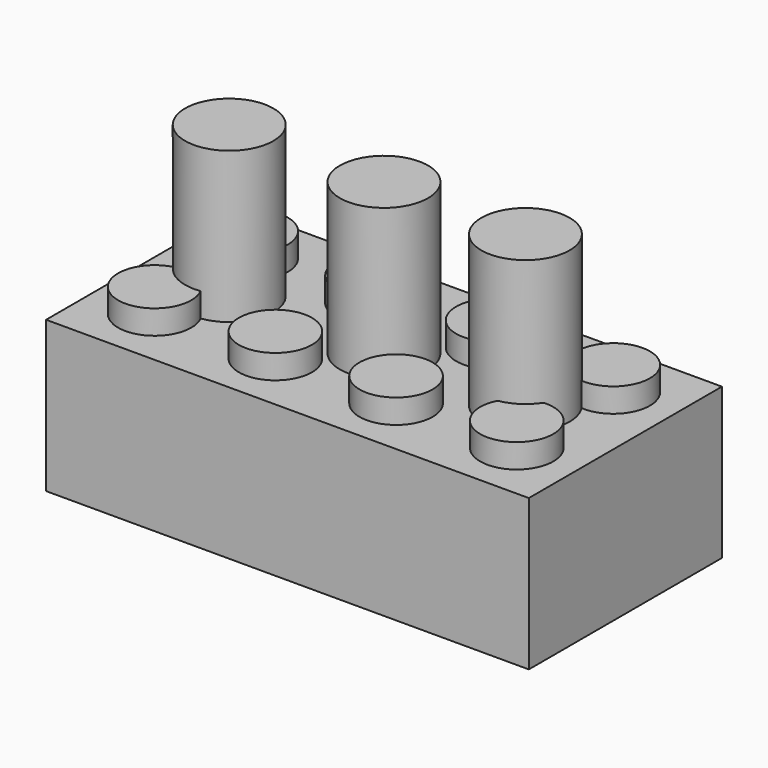
from build123d import *

# Parameters (mm, degrees)
F0_W     = 32
F0_H     = 16
F1_DEPTH = 10
F2_T     = -1.5
F3_R     = 2.425
F4_DEPTH = 1.6
F5_R     = 2.925
F6_DEPTH = 10


with BuildPart() as f1:
    # F0 (on Top) → F1 (new body)
    with BuildSketch(Plane.XY):
        Rectangle(F0_W, F0_H)
    extrude(amount=F1_DEPTH)

    # F2
    f2_openings = [f1.faces().sort_by_distance(p)[0] for p in [
        (0, 0, 0),
    ]]
    offset(amount=F2_T, openings=f2_openings)

    # F3 (on face) → F4 (join)
    with BuildSketch(Plane.XY.offset(10)):
        with Locations((-12, -4)):
            Circle(F3_R)
        with Locations((-12, 4)):
            Circle(F3_R)
        with Locations((-4, -4)):
            Circle(F3_R)
        with Locations((-4, 4)):
            Circle(F3_R)
        with Locations((4, -4)):
            Circle(F3_R)
        with Locations((4, 4)):
            Circle(F3_R)
        with Locations((12, -4)):
            Circle(F3_R)
        with Locations((12, 4)):
            Circle(F3_R)
    extrude(amount=F4_DEPTH)

    # F5 (on face) → F6 (join)
    with BuildSketch(Plane.XY.offset(10)):
        with Locations((-10.257971, 0)):
            Circle(F5_R)
        with BuildLine():
            ThreePointArc((12.301918, 0), (9.376918, 2.925), (6.451918, 0))
            ThreePointArc((6.451918, 0), (9.376918, -2.925), (12.301918, 0))
        make_face()
        with BuildLine():
            ThreePointArc((2.925, 0), (0, 2.925), (-2.925, 0))
            Line((-2.925, 0), (0, 0))
            Line((0, 0), (2.925, 0))
        make_face()
        with BuildLine():
            Line((0, 0), (-2.925, 0))
            ThreePointArc((-2.925, 0), (0, -2.925), (2.925, 0))
            Line((2.925, 0), (0, 0))
        make_face()
    extrude(amount=F6_DEPTH)


solid = f1.part
